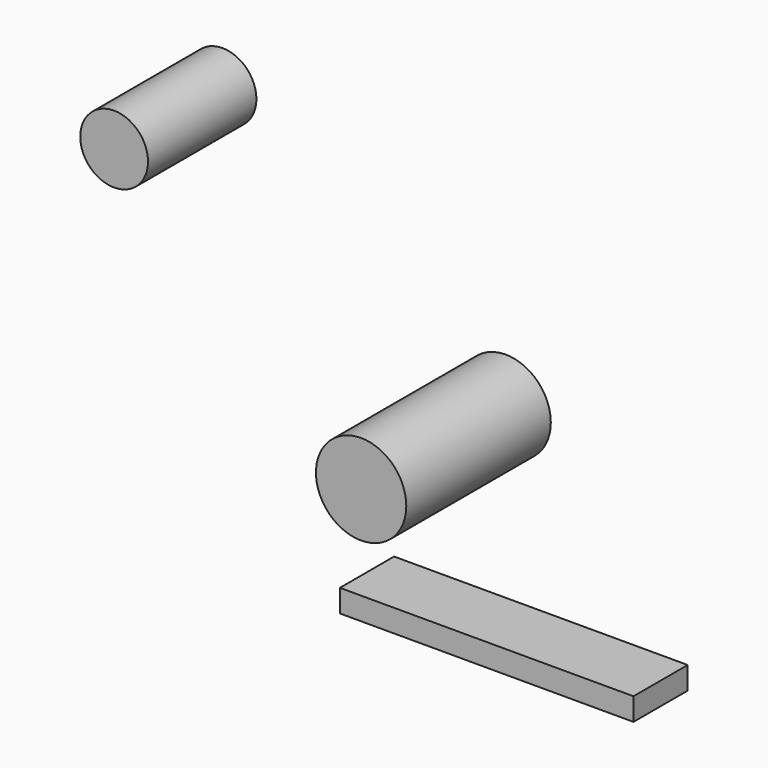
from build123d import *

# Parameters (mm, degrees)
F0_R     = 7.5
F1_DEPTH = 30
F2_R     = 10
F3_DEPTH = 40
F4_W     = 65
F4_H     = 5
F5_DEPTH = 15


with BuildPart() as f1:
    # F0 (on Front) → F1 (new body)
    with BuildSketch(Plane.XZ):
        with Locations((-62.680647, 41.848551)):
            Circle(F0_R)
    extrude(amount=F1_DEPTH)


with BuildPart() as f3:
    # F2 (on Front) → F3 (new body)
    with BuildSketch(Plane.XZ):
        Circle(F2_R)
    extrude(amount=F3_DEPTH)


with BuildPart() as f5:
    # F4 (on Front) → F5 (new body)
    with BuildSketch(Plane.XZ):
        with Locations((7.802421, -39.907049)):
            Rectangle(F4_W, F4_H)
    extrude(amount=F5_DEPTH)


solid = Compound([f1.part, f3.part, f5.part])
